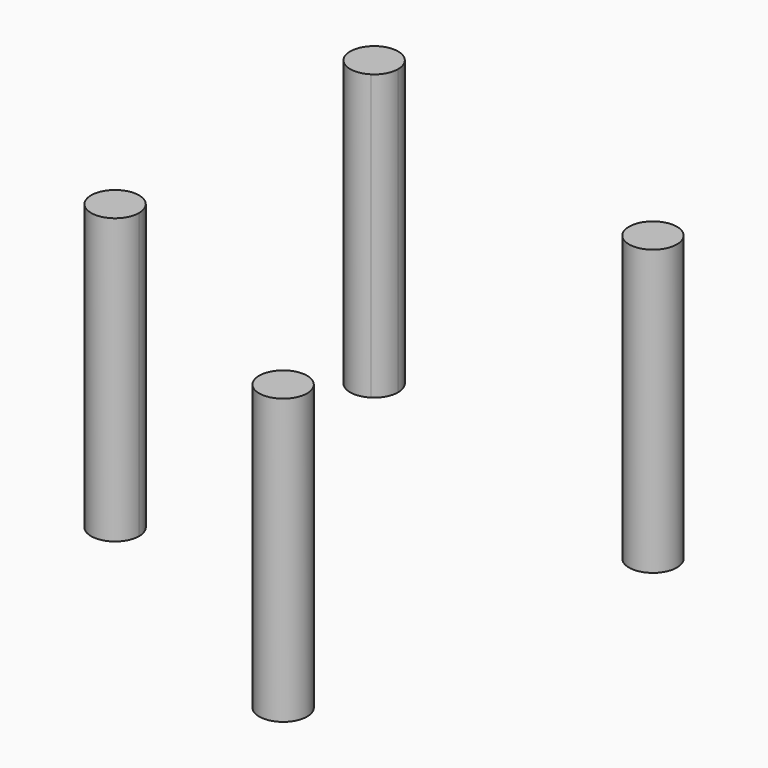
from build123d import *

# Parameters (mm, degrees)
F0_R     = 203.2
F1_DEPTH = 2413


with BuildPart() as f1:
    # F0 (on Top) → F1 (new body)
    with BuildSketch(Plane.XY):
        with BuildLine():
            ThreePointArc((0, 0), (-353.094331, -189.888682), (42.410881, -124.246123))
            ThreePointArc((42.410881, -124.246123), (31.516093, -58.603565), (0, 0))
        make_face()
        with BuildLine():
            ThreePointArc((92.970587, 2558.303593), (-288.679485, 2655.493158), (0, 2387.6))
            ThreePointArc((0, 2387.6), (68.22066, 2461.114027), (92.970587, 2558.303593))
        make_face()
        with Locations((2901.362451, 1749.006764)):
            Circle(F0_R)
        with Locations((2323.866724, -1449.078836)):
            Circle(F0_R)
    extrude(amount=F1_DEPTH)


solid = f1.part
